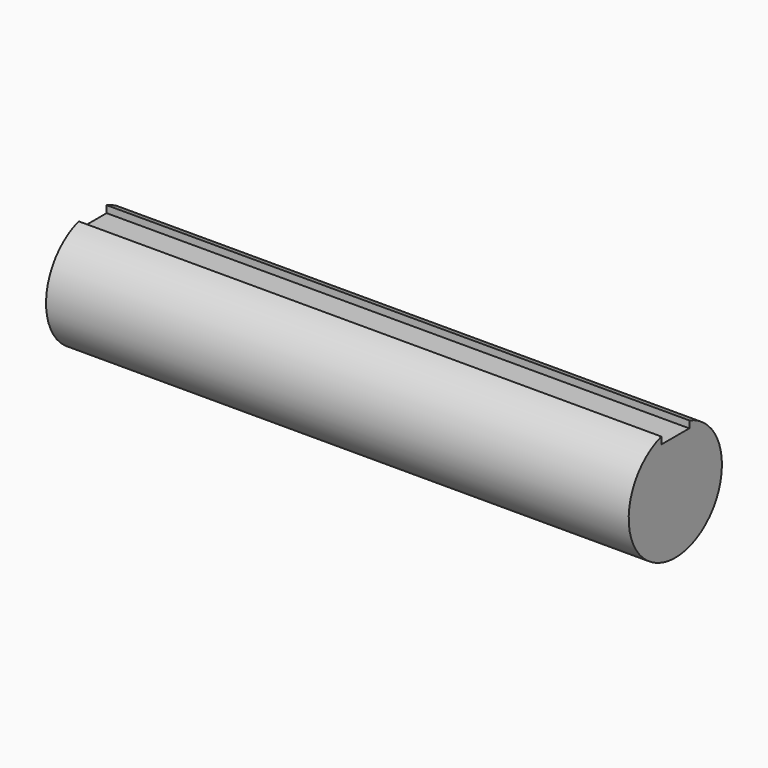
from build123d import *

# Parameters (mm, degrees)
F1_DEPTH = 300


with BuildPart() as f1:
    # F0 (on Right) → F1 (new body)
    with BuildSketch(Plane.YZ):
        with BuildLine():
            ThreePointArc((-9, 28.618176), (-17.748239, -24.186773), (30, 0))
            ThreePointArc((30, 0), (24.186773, 17.748239), (9, 28.618176))
            Line((9, 28.618176), (9, 25))
            Line((9, 25), (0, 25))
            Line((0, 25), (-9, 25))
            Line((-9, 25), (-9, 28.618176))
        make_face()
    extrude(amount=F1_DEPTH)


solid = f1.part
